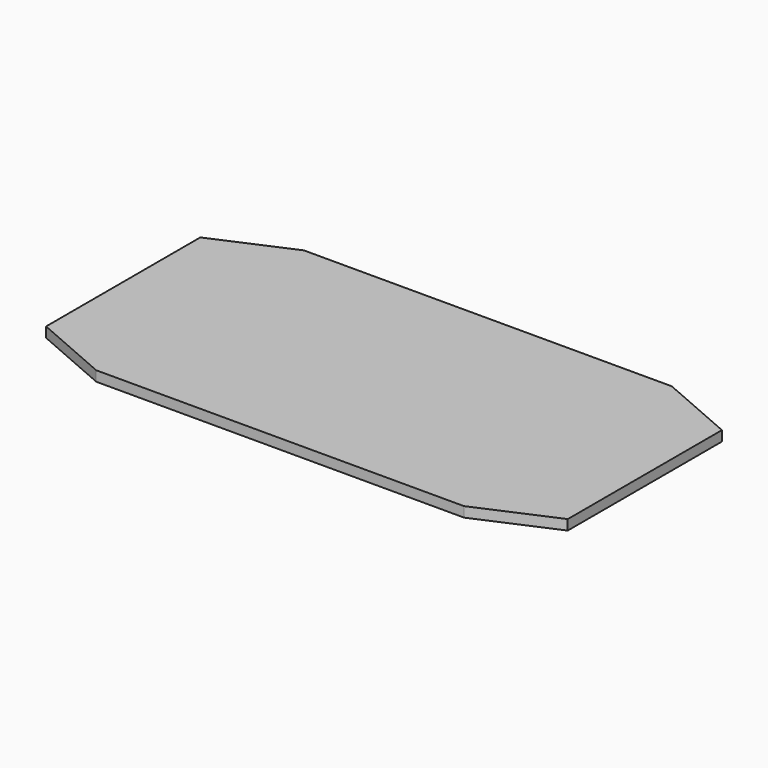
from build123d import *

# Parameters (mm, degrees)
BOX004_W               = 20
BOX004_H               = 10
BOX004_DEPTH           = 10
BOX004_PLACEMENT_ANGLE = 156.5
BOX006_W               = 20
BOX006_H               = 10
BOX006_DEPTH           = 10
BOX006_PLACEMENT_ANGLE = 23.5
BOX007_W               = 20
BOX007_H               = 10
BOX007_DEPTH           = 10
BOX007_PLACEMENT_ANGLE = -23.5
BOX005_W               = 20
BOX005_H               = 10
BOX005_DEPTH           = 10
BOX005_PLACEMENT_ANGLE = 203.5
BOX001_W               = 108.5
BOX001_H               = 54
BOX001_DEPTH           = 2.1


with BuildPart() as cube004:
    # Box004 → Box004 (new body)
    with BuildSketch(Plane.XY):
        with Locations((10, 5)):
            Rectangle(BOX004_W, BOX004_H)
    extrude(amount=BOX004_DEPTH)


with BuildPart() as cube004_1:
    # Box004 placement: moved
    add(cube004.part.moved(Location((16, 0, 0))).rotate(Axis((16, 0, 0), (0, 0, 1)), BOX004_PLACEMENT_ANGLE))


with BuildPart() as cube006:
    # Box006 → Box006 (new body)
    with BuildSketch(Plane.XY):
        with Locations((10, 5)):
            Rectangle(BOX006_W, BOX006_H)
    extrude(amount=BOX006_DEPTH)


with BuildPart() as cube006_1:
    # Box006 placement: moved
    add(cube006.part.moved(Location((94.5, -10.035, 0))).rotate(Axis((94.5, -10.035, 0), (0, 0, 1)), BOX006_PLACEMENT_ANGLE))


with BuildPart() as cube007:
    # Box007 → Box007 (new body)
    with BuildSketch(Plane.XY):
        with Locations((10, 5)):
            Rectangle(BOX007_W, BOX007_H)
    extrude(amount=BOX007_DEPTH)


with BuildPart() as cube007_1:
    # Box007 placement: moved
    add(cube007.part.moved(Location((92.5, 54, 0))).rotate(Axis((92.5, 54, 0), (0, 0, 1)), BOX007_PLACEMENT_ANGLE))


with BuildPart() as cube005:
    # Box005 → Box005 (new body)
    with BuildSketch(Plane.XY):
        with Locations((10, 5)):
            Rectangle(BOX005_W, BOX005_H)
    extrude(amount=BOX005_DEPTH)


with BuildPart() as cube005_1:
    # Box005 placement: moved
    add(cube005.part.moved(Location((14, 64.0348, 0))).rotate(Axis((14, 64.0348, 0), (0, 0, 1)), BOX005_PLACEMENT_ANGLE))


with BuildPart() as obj1:
    # Box001 → Box001 (new body)
    with BuildSketch(Plane.XY):
        with Locations((54.25, 27)):
            Rectangle(BOX001_W, BOX001_H)
    extrude(amount=BOX001_DEPTH)

    # Cut001: cut Cube005
    add(cube005_1.part, mode=Mode.SUBTRACT)

    # Cut002: cut Cube007
    add(cube007_1.part, mode=Mode.SUBTRACT)

    # Cut003: cut Cube006
    add(cube006_1.part, mode=Mode.SUBTRACT)

    # Cut004: cut Cube004
    add(cube004_1.part, mode=Mode.SUBTRACT)


with BuildPart() as obj1_1:
    # Cut004 placement: moved
    add(obj1.part.moved(Location((-36.55, -13.7, 20))))


solid = obj1_1.part
